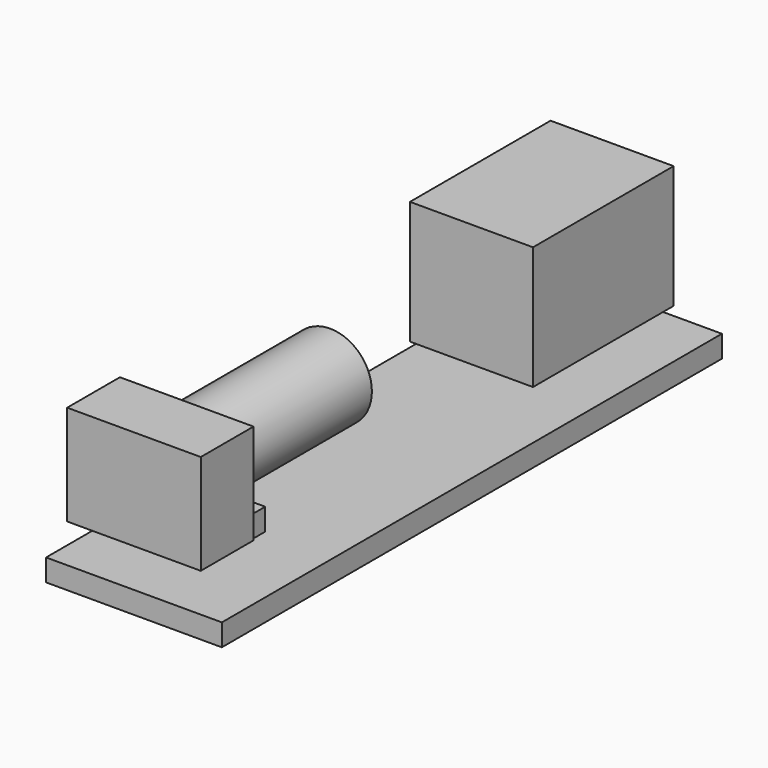
from build123d import *

# Parameters (mm, degrees)
F0_W          = 200
F0_H          = 711.206817627
F1_DEPTH      = 25
F3_DEPTH      = 12.5
F5_R          = 47.5
F6_DEPTH      = 179
F6_DEPTH_BACK = 25
F7_W          = 152
F7_H          = 114
F8_DEPTH      = 75
F9_W          = 42.0769490302
F9_H          = 69.712638855
F10_DEPTH     = 25
F12_W         = 140
F12_H         = 200
F13_DEPTH     = 70


with BuildPart() as f1:
    # F0 (on Top) → F1 (new body)
    with BuildSketch(Plane.XY):
        with Locations((0, 355.6034088135)):
            Rectangle(F0_W, F0_H)
    extrude(amount=-F1_DEPTH)


with BuildPart() as f3:
    # F2 (on Right) → F3 (new body, symmetric)
    with BuildSketch(Plane.YZ):
        Polygon((100, 55), (100, 25), (140, 25), (140, 30), (110, 30), (110, 55), align=None)
    extrude(amount=F3_DEPTH, both=True)

    # F5 (on offset) → F6 (join, two sides)
    with BuildSketch(Plane.XZ.offset(-100)) as f6_sk:
        with Locations((0, 100.8257569496)):
            Circle(F5_R)
    extrude(amount=-F6_DEPTH)
    extrude(f6_sk.sketch, amount=F6_DEPTH_BACK)


with BuildPart() as f8:
    # F7 (on face) → F8 (new body)
    with BuildSketch(Plane.XZ.offset(-75)):
        with Locations((0, 100.8257569496)):
            Rectangle(F7_W, F7_H)
    extrude(amount=F8_DEPTH)


with BuildPart() as f10:
    # F9 (on face) → F10 (new body, through all)
    with BuildSketch(Plane.XY):
        with Locations((0, 125.4847198725)):
            Rectangle(F9_W, F9_H)
    extrude(amount=F10_DEPTH)


with BuildPart() as f13:
    # F12 (on mid) → F13 (new body, symmetric)
    with BuildSketch(Plane.XY.offset(100.8257569496)):
        with Locations((0, 580)):
            Rectangle(F12_W, F12_H)
    extrude(amount=F13_DEPTH, both=True)


solid = Compound([f1.part, f3.part, f8.part, f10.part, f13.part])
